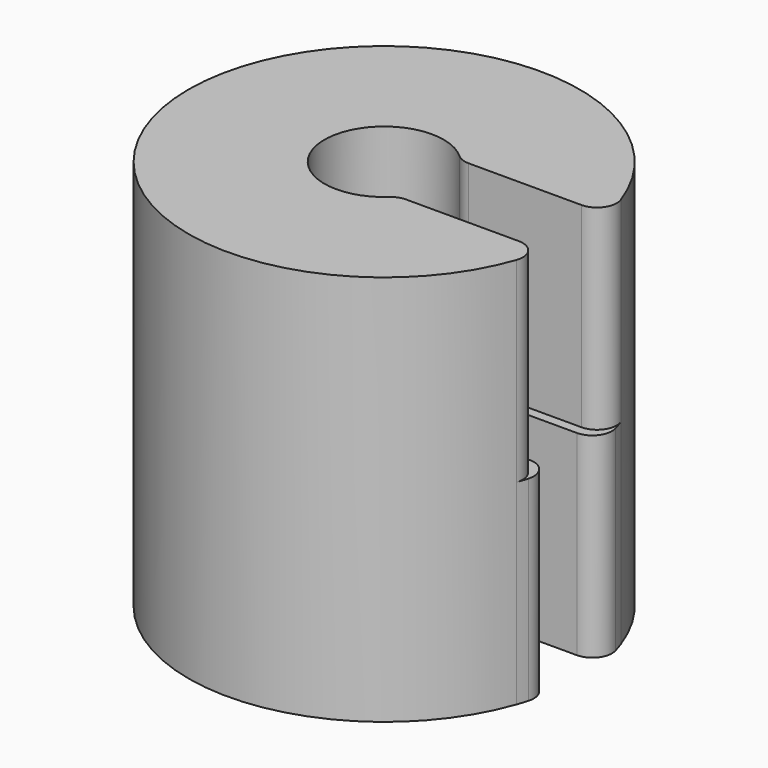
from build123d import *

# Parameters (mm, degrees)
F1_DEPTH = 20
F2_R     = 1
F4_DEPTH = 10
F5_R     = 1


with BuildPart() as f1:
    # F0 (on Top) → F1 (new body)
    with BuildSketch(Plane.XY):
        with BuildLine():
            Line((2.302716, 2), (9.797959, 2))
            ThreePointArc((9.797959, 2), (-10, 0), (9.797959, -2))
            Line((9.797959, -2), (2.302716, -2))
            ThreePointArc((2.302716, -2), (-3.05, 0), (2.302716, 2))
        make_face()
    extrude(amount=F1_DEPTH)

    # F2
    f2_edges = [f1.edges().sort_by_distance(p)[0] for p in [
        (9.797959, 2, 10),
        (2.302716, 2, 10),
        (2.302716, -2, 10),
        (9.797959, -2, 10),
    ]]
    fillet(f2_edges, radius=F2_R)

    # F3 (on Top) → F4 (join)
    with BuildSketch(Plane.XY):
        with BuildLine():
            Line((2.655654, 1.5), (9.88686, 1.5))
            ThreePointArc((9.88686, 1.5), (-10, 0), (9.88686, -1.5))
            Line((9.88686, -1.5), (2.655654, -1.5))
            ThreePointArc((2.655654, -1.5), (-3.05, 0), (2.655654, 1.5))
        make_face()
    extrude(amount=F4_DEPTH)

    # F5
    f5_edges = [f1.edges().sort_by_distance(p)[0] for p in [
        (9.88686, -1.5, 5),
        (9.88686, 1.5, 5),
        (2.655654, -1.5, 5),
        (2.655654, 1.5, 5),
    ]]
    fillet(f5_edges, radius=F5_R)


solid = f1.part
